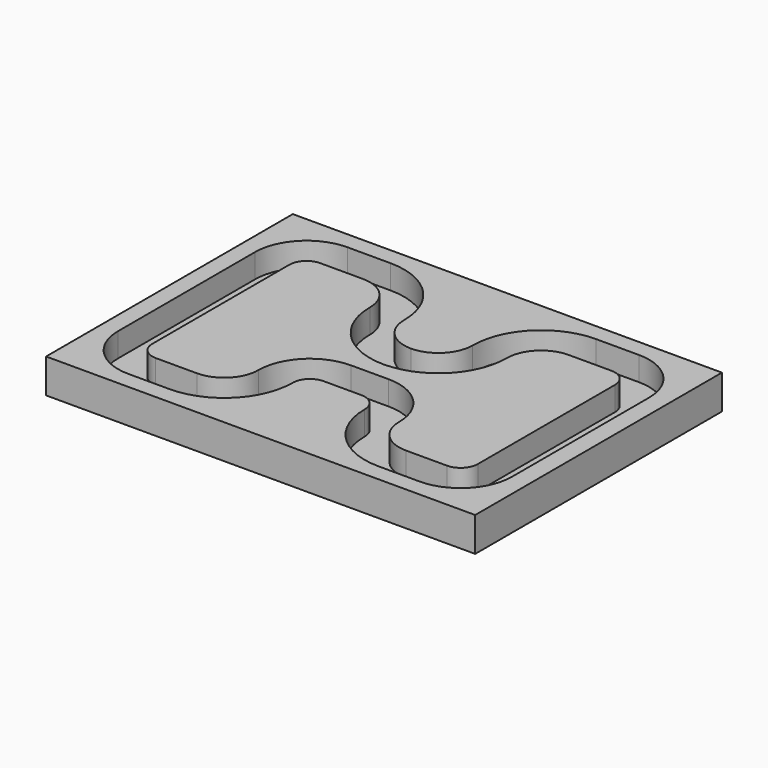
from build123d import *

# Parameters (mm, degrees)
F2_W     = 250.487179
F2_H     = 180.019528
F3_DEPTH = 20
F4_DEPTH = 14


with BuildPart() as f3:
    # F2 (on offset) → F3 (new body)
    with BuildSketch(Plane.XY.offset(-20)):
        with Locations((125.243589, 90.009764)):
            Rectangle(F2_W, F2_H)
    extrude(amount=F3_DEPTH)

    # F0 (on Top) → F4 (cut)
    with BuildSketch(Plane.XY):
        with BuildLine():
            Line((65, 170), (40, 170))
            ThreePointArc((40, 170), (18.786797, 161.213203), (10, 140))
            Line((10, 140), (10, 40))
            ThreePointArc((10, 40), (18.786797, 18.786797), (40, 10))
            Line((40, 10), (64, 10))
            ThreePointArc((64, 10), (92.284271, 21.715729), (104, 50))
            ThreePointArc((104, 50), (106.928932, 57.071068), (114, 60))
            Line((114, 60), (125, 60))
            Line((125, 60), (136, 60))
            ThreePointArc((136, 60), (143.071068, 57.071068), (146, 50))
            ThreePointArc((146, 50), (157.715729, 21.715729), (186, 10))
            Line((186, 10), (210, 10))
            ThreePointArc((210, 10), (231.213203, 18.786797), (240, 40))
            Line((240, 40), (240, 140))
            ThreePointArc((240, 140), (231.213203, 161.213203), (210, 170))
            Line((210, 170), (185, 170))
            ThreePointArc((185, 170), (156.715729, 158.284271), (145, 130))
            ThreePointArc((145, 130), (139.142136, 115.857864), (125, 110))
            ThreePointArc((125, 110), (110.857864, 115.857864), (105, 130))
            ThreePointArc((105, 130), (93.284271, 158.284271), (65, 170))
        make_face()
        with BuildLine():
            ThreePointArc((84, 50), (78.142136, 35.857864), (64, 30))
            Line((64, 30), (40, 30))
            ThreePointArc((40, 30), (32.928932, 32.928932), (30, 40))
            Line((30, 40), (30, 140))
            ThreePointArc((30, 140), (32.928932, 147.071068), (40, 150))
            Line((40, 150), (65, 150))
            ThreePointArc((65, 150), (79.142136, 144.142136), (85, 130))
            ThreePointArc((85, 130), (96.715729, 101.715729), (125, 90))
            ThreePointArc((125, 90), (153.284271, 101.715729), (165, 130))
            ThreePointArc((165, 130), (170.857864, 144.142136), (185, 150))
            Line((185, 150), (210, 150))
            ThreePointArc((210, 150), (217.071068, 147.071068), (220, 140))
            Line((220, 140), (220, 40))
            ThreePointArc((220, 40), (217.071068, 32.928932), (210, 30))
            Line((210, 30), (186, 30))
            ThreePointArc((186, 30), (171.857864, 35.857864), (166, 50))
            ThreePointArc((166, 50), (157.213203, 71.213203), (136, 80))
            Line((136, 80), (125, 80))
            Line((125, 80), (114, 80))
            ThreePointArc((114, 80), (92.786797, 71.213203), (84, 50))
        make_face(mode=Mode.SUBTRACT)
    extrude(amount=-F4_DEPTH, mode=Mode.SUBTRACT)


solid = f3.part
